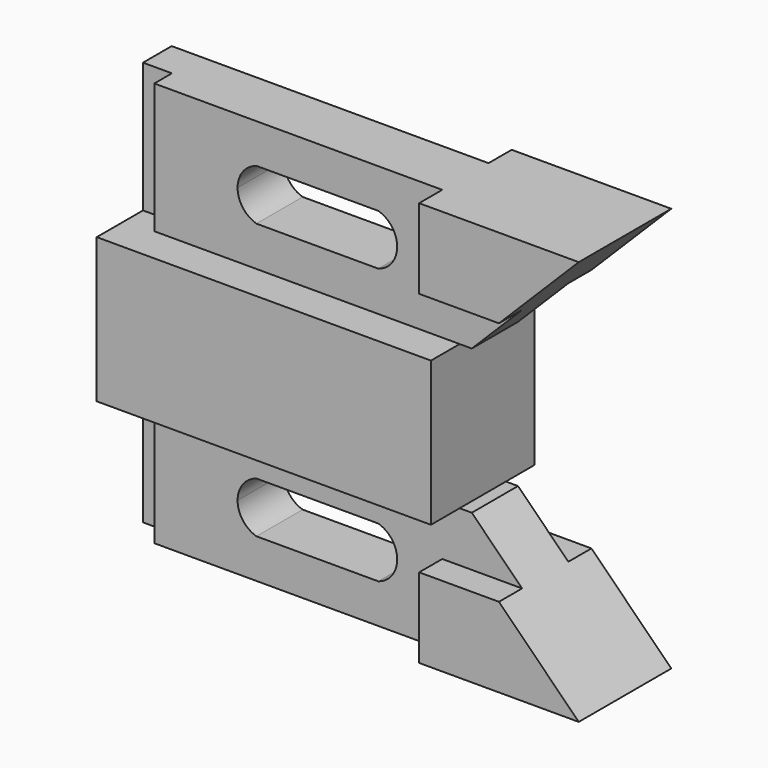
from build123d import *

# Parameters (mm, degrees)
F0_W      = 31.242
F0_H      = 12.7
F1_DEPTH  = 28.575
F0_W_2    = 69.596
F0_H_2    = 6.35
F2_DEPTH  = 15.875
F4_DEPTH  = 26.925
F6_DEPTH  = 20.575
F9_DEPTH  = 6.35
F10_DEPTH = 6.35


with BuildPart() as f1:
    # F0 (on Top) → F1 (new body)
    with BuildSketch(Plane.XY):
        with Locations((89.027, 6.35)):
            Rectangle(F0_W, F0_H)
        with Locations((89.027, -6.35)):
            Rectangle(F0_W, F0_H)
        Polygon((73.406, 0), (0, 0), (0, -1.524), (6.35, -1.524), (6.35, -6.35), (69.596, -6.35), (69.596, -12.7), (73.406, -12.7), align=None)
        Polygon((0, 6.35), (0, 0), (73.406, 0), (73.406, 12.7), (69.596, 12.7), (69.596, 6.35), align=None)
    extrude(amount=F1_DEPTH)

    # F0 (on Top) → F2 (join)
    with BuildSketch(Plane.XY):
        with Locations((34.798, 9.525)):
            Rectangle(F0_W_2, F0_H_2)
        Polygon((0, 6.35), (0, 0), (73.406, 0), (73.406, 12.7), (69.596, 12.7), (69.596, 6.35), align=None)
        Polygon((73.406, 0), (0, 0), (0, -1.524), (6.35, -1.524), (6.35, -6.35), (69.596, -6.35), (69.596, -12.7), (73.406, -12.7), align=None)
        Polygon((6.35, -1.524), (0, -1.524), (0, -6.35), (0, -12.7), (69.596, -12.7), (69.596, -6.35), (6.35, -6.35), align=None)
        Polygon((73.406, -14.224), (73.406, -12.7), (69.596, -12.7), (0, -12.7), (0, -14.224), align=None)
        Polygon((69.596, 12.7), (73.406, 12.7), (73.406, 14.224), (0, 14.224), (0, 12.7), align=None)
    extrude(amount=-F2_DEPTH)

    # F3 (on face) → F4 (cut, through all)
    with BuildSketch(Plane.XZ.offset(12.7)):
        Polygon((104.648, 0), (104.648, 28.575), (76.073, 0), align=None)
    extrude(amount=-F4_DEPTH, mode=Mode.SUBTRACT)

    # F5 (on face) → F6 (cut, through all)
    with BuildSketch(Plane.XZ.offset(6.35)):
        with BuildLine():
            ThreePointArc((28.7761162011, 19.939), (25.7851595792, 17.8276992138), (24.638, 14.351))
            Line((24.638, 14.351), (30.48, 14.351))
            Line((30.48, 14.351), (36.322, 14.351))
            ThreePointArc((36.322, 14.351), (35.1748404208, 17.8276992138), (32.1838837989, 19.939))
            Line((32.1838837989, 19.939), (28.7761162011, 19.939))
        make_face()
        with BuildLine():
            Line((30.48, 14.351), (24.638, 14.351))
            ThreePointArc((24.638, 14.351), (25.7851595792, 10.8743007862), (28.7761162011, 8.763))
            Line((28.7761162011, 8.763), (32.1838837989, 8.763))
            ThreePointArc((32.1838837989, 8.763), (35.1748404208, 10.8743007862), (36.322, 14.351))
            Line((36.322, 14.351), (30.48, 14.351))
        make_face()
        with BuildLine():
            ThreePointArc((32.1838837989, 19.939), (35.1748404208, 17.8276992138), (36.322, 14.351))
            Line((36.322, 14.351), (48.006, 14.351))
            ThreePointArc((48.006, 14.351), (49.1531595792, 17.8276992138), (52.1441162011, 19.939))
            Line((52.1441162011, 19.939), (32.1838837989, 19.939))
        make_face()
        with BuildLine():
            ThreePointArc((52.1441162011, 19.939), (49.1531595792, 17.8276992138), (48.006, 14.351))
            Line((48.006, 14.351), (53.848, 14.351))
            Line((53.848, 14.351), (59.69, 14.351))
            ThreePointArc((59.69, 14.351), (58.5428404208, 17.8276992138), (55.5518837989, 19.939))
            Line((55.5518837989, 19.939), (52.1441162011, 19.939))
        make_face()
        with BuildLine():
            Line((53.848, 14.351), (48.006, 14.351))
            ThreePointArc((48.006, 14.351), (49.1531595792, 10.8743007862), (52.1441162011, 8.763))
            Line((52.1441162011, 8.763), (55.5518837989, 8.763))
            ThreePointArc((55.5518837989, 8.763), (58.5428404208, 10.8743007862), (59.69, 14.351))
            Line((59.69, 14.351), (53.848, 14.351))
        make_face()
        with BuildLine():
            Line((48.006, 14.351), (36.322, 14.351))
            ThreePointArc((36.322, 14.351), (35.1748404208, 10.8743007862), (32.1838837989, 8.763))
            Line((32.1838837989, 8.763), (52.1441162011, 8.763))
            ThreePointArc((52.1441162011, 8.763), (49.1531595792, 10.8743007862), (48.006, 14.351))
        make_face()
    extrude(amount=-F6_DEPTH, mode=Mode.SUBTRACT)

    # F8 (on face) → F9 (cut)
    with BuildSketch(Plane(origin=(0, 12.7, 0), x_dir=(-1, 0, 0), z_dir=(0, 1, 0))):
        Polygon((-69.596, 0), (-69.596, 11.049), (-87.122, 11.049), (-76.073, 0), (-73.406, 0), align=None)
    extrude(amount=-F9_DEPTH, mode=Mode.SUBTRACT)

    # F7 (on face) → F10 (cut)
    with BuildSketch(Plane.XZ.offset(12.7)):
        Polygon((87.122, 11.049), (69.596, 11.049), (69.596, 0), (73.406, 0), (76.073, 0), align=None)
    extrude(amount=-F10_DEPTH, mode=Mode.SUBTRACT)

    # F11: F1 across face


with BuildPart() as f1_1:
    add(f1.part)
    add(f1.part.mirror(Plane(origin=(36.703, 0, -15.875), x_dir=(1, 0, 0), z_dir=(0, 0, -1))))


solid = f1_1.part
